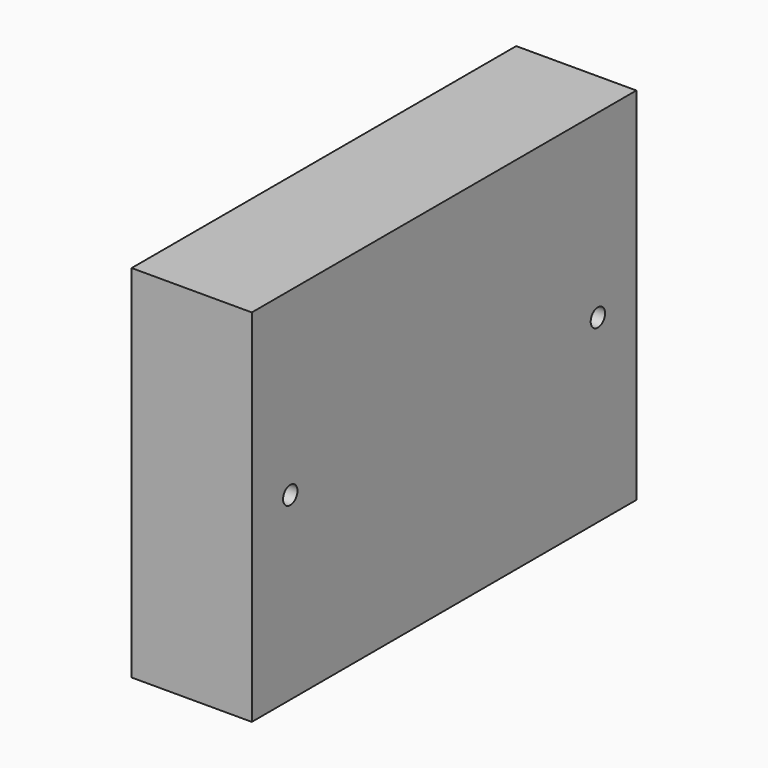
from build123d import *

# Parameters (mm, degrees)
CYLINDER075_R     = 1.5
CYLINDER075_DEPTH = 50
CYLINDER076_R     = 1.5
CYLINDER076_DEPTH = 50
BOX001_W          = 20
BOX001_H          = 80
BOX001_DEPTH      = 60


with BuildPart() as cilindro075:
    # Cylinder075 → Cylinder075 (new body)
    with BuildSketch(Plane(origin=(-8, 8, 30), x_dir=(0, 0, -1), z_dir=(1, 0, 0))):
        Circle(CYLINDER075_R)
    extrude(amount=CYLINDER075_DEPTH)


with BuildPart() as fusion037:
    # Cylinder076 → Cylinder076 (new body)
    with BuildSketch(Plane(origin=(-8, 72, 30), x_dir=(0, 0, -1), z_dir=(1, 0, 0))):
        Circle(CYLINDER076_R)
    extrude(amount=CYLINDER076_DEPTH)

    # Fusion037: union Cilindro075
    add(cilindro075.part)


with BuildPart() as obj1:
    # Box001 → Box001 (new body)
    with BuildSketch(Plane.XY):
        with Locations((10, 40)):
            Rectangle(BOX001_W, BOX001_H)
    extrude(amount=BOX001_DEPTH)

    # Cut001: cut Fusion037
    add(fusion037.part, mode=Mode.SUBTRACT)


with BuildPart() as obj1_1:
    # Cut001 placement: moved
    add(obj1.part.moved(Location((19, -40, -11))))


solid = obj1_1.part
